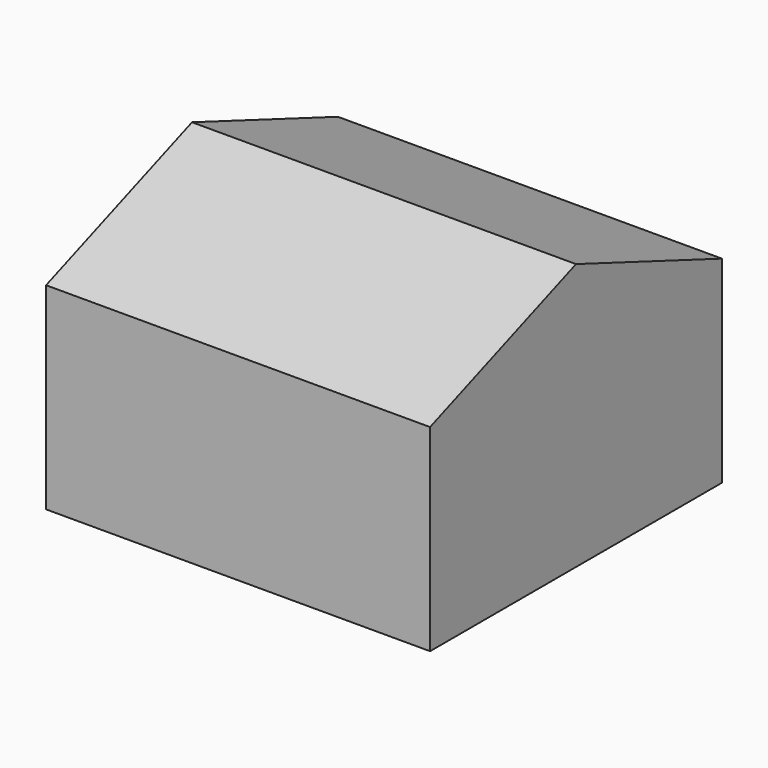
from build123d import *

# Parameters (mm, degrees)
F1_DEPTH = 1800
F2_W     = 3600
F2_H     = 3420
F3_DEPTH = 50
F6_DEPTH = 3600
F8_DEPTH = 1800


with BuildPart() as f1:
    # F0 (on Top) → F1 (new body)
    with BuildSketch(Plane.XY):
        Polygon((-1800, 150), (-1800, -1710), (1800, -1710), (1800, 150), (1800, 1710), align=None)
    extrude(amount=-F1_DEPTH)

    # F2 (on face) → F3 (join)
    with BuildSketch(Plane.XY):
        Rectangle(F2_W, F2_H)
    extrude(amount=F3_DEPTH)

    # F5 (on face) → F6 (join)
    with BuildSketch(Plane.YZ.offset(1800)):
        Polygon((-1710, 50), (0, 50), (0, 700), align=None)
        Polygon((0, 700), (0, 50), (1710, 50), align=None)
    extrude(amount=-F6_DEPTH)

    # F7 (on face) → F8 (join)
    with BuildSketch(Plane(origin=(0, 0, 0), x_dir=(1, 0, 0), z_dir=(0, 0, -1))):
        with BuildLine():
            ThreePointArc((-1500, -1310), (-1470.710678, -1380.710678), (-1400, -1410))
            Line((-1400, -1410), (-1400, -1310))
            Line((-1400, -1310), (-1500, -1310))
        make_face()
        with BuildLine():
            Line((-1400, -1310), (-1400, -1410))
            ThreePointArc((-1400, -1410), (-1329.289322, -1380.710678), (-1300, -1310))
            ThreePointArc((-1300, -1310), (-1400, -1210), (-1500, -1310))
            Line((-1500, -1310), (-1400, -1310))
        make_face()
    extrude(amount=F8_DEPTH)


solid = f1.part
